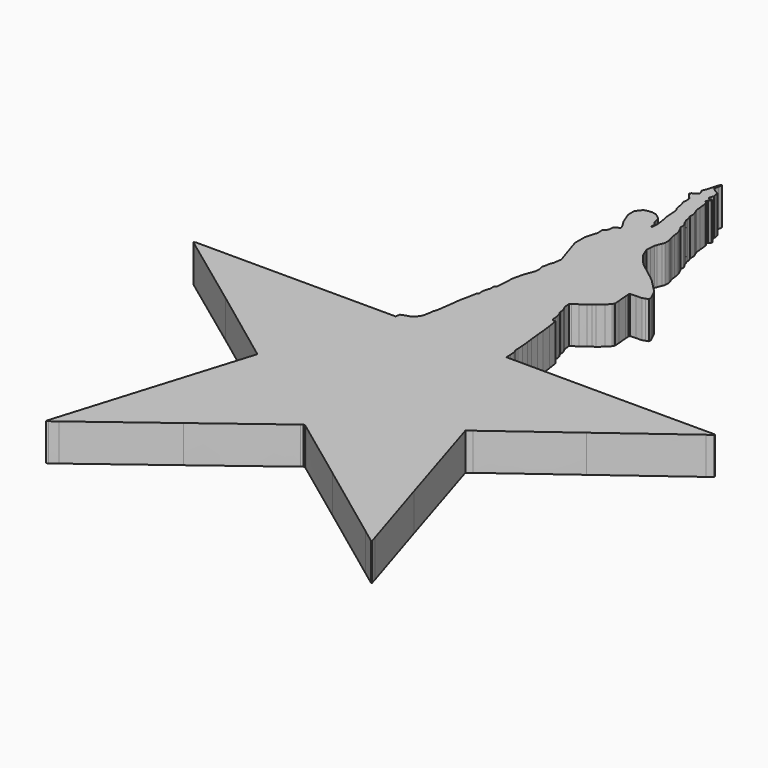
from build123d import *

# Parameters (mm, degrees)
F1_DEPTH = 25


with BuildPart() as f1:
    # F0 (on Top) → F1 (new body)
    with BuildSketch(Plane.XY):
        with BuildLine():
            add(Edge.make_bspline(
                [(1.102414, 215.360688), (1.131774, 215.871459), (0.384142, 216.245898), (0.013864, 215.253641)],
                knots=[0, 0, 0, 0, 1, 1, 1, 1], degree=3))
            add(Edge.make_bspline(
                [(0.013864, 215.253641), (-0.129153, 214.870394), (-0.434494, 213.802145), (-0.754055, 212.706107)],
                knots=[0, 0, 0, 0, 1, 1, 1, 1], degree=3))
            add(Edge.make_bspline(
                [(-0.754055, 212.706107), (-1.073643, 211.609899), (-1.41262, 210.331997), (-1.503722, 209.866217)],
                knots=[0, 0, 0, 0, 1, 1, 1, 1], degree=3))
            add(Edge.make_bspline(
                [(-1.503722, 209.866217), (-1.59471, 209.400551), (-2.0654, 207.962007), (-2.553221, 206.673607)],
                knots=[0, 0, 0, 0, 1, 1, 1, 1], degree=3))
            Line((-2.553221, 206.673607), (-3.443999, 204.327606))
            Line((-3.443999, 204.327606), (-2.791332, 202.766579))
            Line((-2.791332, 202.766579), (-2.147527, 201.205551))
            Line((-2.147527, 201.205551), (-2.72961, 200.623439))
            add(Edge.make_bspline(
                [(-2.72961, 200.623439), (-3.049312, 200.303766), (-3.907888, 199.713075), (-4.643444, 199.309356)],
                knots=[0, 0, 0, 0, 1, 1, 1, 1], degree=3))
            Line((-4.643444, 199.309356), (-5.983999, 198.577328))
            Line((-5.983999, 198.577328), (-6.275027, 198.092273))
            Line((-6.275027, 198.092273), (-6.574888, 197.616023))
            Line((-6.574888, 197.616023), (-5.948722, 196.945745))
            add(Edge.make_bspline(
                [(-5.948722, 196.945745), (-5.60458, 196.579505), (-5.322527, 196.174009), (-5.322527, 196.046162)],
                knots=[0, 0, 0, 0, 1, 1, 1, 1], degree=3))
            add(Edge.make_bspline(
                [(-5.322527, 196.046162), (-5.322527, 195.918287), (-4.822514, 195.271716), (-4.211277, 194.608607)],
                knots=[0, 0, 0, 0, 1, 1, 1, 1], degree=3))
            Line((-4.211277, 194.608607), (-3.100027, 193.400329))
            Line((-3.100027, 193.400329), (-2.905999, 192.359634))
            Line((-2.905999, 192.359634), (-2.711971, 191.31894))
            Line((-2.711971, 191.31894), (-2.861888, 189.643245))
            Line((-2.861888, 189.643245), (-3.011832, 187.976384))
            Line((-3.011832, 187.976384), (-2.588499, 187.112051))
            Line((-2.588499, 187.112051), (-2.156332, 186.247773))
            Line((-2.156332, 186.247773), (-1.671277, 183.354995))
            Line((-1.671277, 183.354995), (-1.186222, 180.453384))
            Line((-1.186222, 180.453384), (-0.595305, 179.492051))
            Line((-0.595305, 179.492051), (-0.004388, 178.539551))
            Line((-0.004388, 178.539551), (0.321918, 175.152884))
            add(Edge.make_bspline(
                [(0.321918, 175.152884), (0.503076, 173.29033), (0.633434, 171.213429), (0.612945, 170.540329)],
                knots=[0, 0, 0, 0, 1, 1, 1, 1], degree=3))
            Line((0.612945, 170.540329), (0.577667, 169.31444))
            Line((0.577667, 169.31444), (1.001001, 167.859217))
            add(Edge.make_bspline(
                [(1.001001, 167.859217), (1.232141, 167.057706), (1.623244, 164.90675), (1.87414, 163.079079)],
                knots=[0, 0, 0, 0, 1, 1, 1, 1], degree=3))
            Line((1.87414, 163.079079), (2.332751, 159.754162))
            Line((2.332751, 159.754162), (2.209279, 157.778607))
            add(Edge.make_bspline(
                [(2.209279, 157.778607), (2.142279, 156.689765), (2.01415, 155.722533), (1.927056, 155.635467)],
                knots=[0, 0, 0, 0, 1, 1, 1, 1], degree=3))
            Line((1.927056, 155.635467), (1.768306, 155.476717))
            Line((1.768306, 155.476717), (1.468445, 155.66194))
            Line((1.468445, 155.66194), (1.168584, 155.847134))
            Line((1.168584, 155.847134), (1.336168, 156.923106))
            Line((1.336168, 156.923106), (1.512557, 157.999079))
            Line((1.512557, 157.999079), (1.159779, 158.669356))
            add(Edge.make_bspline(
                [(1.159779, 158.669356), (0.968545, 159.039293), (0.579558, 159.599871), (0.295445, 159.912884)],
                knots=[0, 0, 0, 0, 1, 1, 1, 1], degree=3))
            Line((0.295445, 159.912884), (-0.216054, 160.486162))
            Line((-0.216054, 160.486162), (-0.789332, 162.311773))
            add(Edge.make_bspline(
                [(-0.789332, 162.311773), (-1.104744, 163.318262), (-1.368594, 164.344591), (-1.371416, 164.587218)],
                knots=[0, 0, 0, 0, 1, 1, 1, 1], degree=3))
            Line((-1.371416, 164.587218), (-1.371416, 165.028162))
            Line((-1.371416, 165.028162), (-2.147527, 165.724912))
            add(Edge.make_bspline(
                [(-2.147527, 165.724912), (-2.574388, 166.108141), (-3.516361, 166.823518), (-4.237721, 167.321217)],
                knots=[0, 0, 0, 0, 1, 1, 1, 1], degree=3))
            Line((-4.237721, 167.321217), (-5.551832, 168.229634))
            Line((-5.551832, 168.229634), (-7.024666, 168.547134))
            Line((-7.024666, 168.547134), (-8.506332, 168.864634))
            Line((-8.506332, 168.864634), (-10.19086, 168.670606))
            add(Edge.make_bspline(
                [(-10.19086, 168.670606), (-11.114743, 168.566071), (-12.20381, 168.35861), (-12.616222, 168.203162)],
                knots=[0, 0, 0, 0, 1, 1, 1, 1], degree=3))
            Line((-12.616222, 168.203162), (-13.36586, 167.920939))
            Line((-13.36586, 167.920939), (-14.300721, 167.021384))
            add(Edge.make_bspline(
                [(-14.300721, 167.021384), (-14.812334, 166.527749), (-15.564936, 165.55174), (-15.976416, 164.851773)],
                knots=[0, 0, 0, 0, 1, 1, 1, 1], degree=3))
            Line((-15.976416, 164.851773), (-16.726054, 163.581773))
            Line((-16.726054, 163.581773), (-16.655499, 161.068245))
            Line((-16.655499, 161.068245), (-16.593777, 158.554718))
            Line((-16.593777, 158.554718), (-16.055777, 157.258245))
            add(Edge.make_bspline(
                [(-16.055777, 157.258245), (-15.758258, 156.543546), (-15.122891, 154.945886), (-14.653499, 153.703995)],
                knots=[0, 0, 0, 0, 1, 1, 1, 1], degree=3))
            Line((-14.653499, 153.703995), (-13.806832, 151.446217))
            Line((-13.806832, 151.446217), (-12.087055, 148.623995))
            Line((-12.087055, 148.623995), (-10.358444, 145.801773))
            Line((-10.358444, 145.801773), (-10.208499, 145.025662))
            Line((-10.208499, 145.025662), (-10.049749, 144.258384))
            Line((-10.049749, 144.258384), (-10.437805, 144.134912))
            add(Edge.make_bspline(
                [(-10.437805, 144.134912), (-10.650741, 144.067884), (-11.14336, 143.938401), (-11.531416, 143.85269)],
                knots=[0, 0, 0, 0, 1, 1, 1, 1], degree=3))
            Line((-11.531416, 143.85269), (-12.236971, 143.702773))
            Line((-12.236971, 143.702773), (-13.013082, 142.970745))
            Line((-13.013082, 142.970745), (-13.789194, 142.247551))
            Line((-13.789194, 142.247551), (-13.789194, 140.730606))
            Line((-13.789194, 140.730606), (-13.789194, 139.213662))
            Line((-13.789194, 139.213662), (-15.076832, 137.705551))
            Line((-15.076832, 137.705551), (-16.364471, 136.206217))
            Line((-16.364471, 136.206217), (-16.188082, 134.362967))
            Line((-16.188082, 134.362967), (-16.002888, 132.528523))
            Line((-16.002888, 132.528523), (-16.584943, 130.976301))
            add(Edge.make_bspline(
                [(-16.584943, 130.976301), (-16.901794, 130.123595), (-17.435279, 128.289969), (-17.775582, 126.892884)],
                knots=[0, 0, 0, 0, 1, 1, 1, 1], degree=3))
            Line((-17.775582, 126.892884), (-18.392944, 124.352884))
            Line((-18.392944, 124.352884), (-18.419388, 120.401773))
            Line((-18.419388, 120.401773), (-18.44586, 116.450662))
            Line((-18.44586, 116.450662), (-17.352249, 112.922884))
            add(Edge.make_bspline(
                [(-17.352249, 112.922884), (-16.747701, 110.982606), (-15.631653, 107.553606), (-14.873999, 105.302884)],
                knots=[0, 0, 0, 0, 1, 1, 1, 1], degree=3))
            add(Edge.make_bspline(
                [(-14.873999, 105.302884), (-14.116233, 103.052275), (-13.182642, 100.209619), (-12.801416, 98.988162)],
                knots=[0, 0, 0, 0, 1, 1, 1, 1], degree=3))
            Line((-12.801416, 98.988162), (-12.104666, 96.765662))
            Line((-12.104666, 96.765662), (-12.536832, 94.049273))
            Line((-12.536832, 94.049273), (-12.960166, 91.332884))
            Line((-12.960166, 91.332884), (-13.42761, 90.203995))
            Line((-13.42761, 90.203995), (-13.886222, 89.075106))
            Line((-13.886222, 89.075106), (-14.080221, 87.522884))
            add(Edge.make_bspline(
                [(-14.080221, 87.522884), (-14.189159, 86.669359), (-14.453968, 85.555118), (-14.662333, 85.053439)],
                knots=[0, 0, 0, 0, 1, 1, 1, 1], degree=3))
            Line((-14.662333, 85.053439), (-15.041555, 84.145051))
            Line((-15.041555, 84.145051), (-14.63586, 82.795662))
            Line((-14.63586, 82.795662), (-14.221332, 81.455106))
            Line((-14.221332, 81.455106), (-14.274277, 79.867606))
            Line((-14.274277, 79.867606), (-14.327166, 78.28894))
            Line((-14.327166, 78.28894), (-15.032721, 76.251662))
            add(Edge.make_bspline(
                [(-15.032721, 76.251662), (-15.423373, 75.133949), (-15.986011, 73.691427), (-16.28511, 73.041384)],
                knots=[0, 0, 0, 0, 1, 1, 1, 1], degree=3))
            add(Edge.make_bspline(
                [(-16.28511, 73.041384), (-16.583899, 72.391229), (-17.055859, 70.907051), (-17.325777, 69.742884)],
                knots=[0, 0, 0, 0, 1, 1, 1, 1], degree=3))
            add(Edge.make_bspline(
                [(-17.325777, 69.742884), (-17.59575, 68.578717), (-17.989196, 66.800774), (-18.207721, 65.791773)],
                knots=[0, 0, 0, 0, 1, 1, 1, 1], degree=3))
            Line((-18.207721, 65.791773), (-18.60461, 63.957328))
            Line((-18.60461, 63.957328), (-18.886832, 59.441773))
            add(Edge.make_bspline(
                [(-18.886832, 59.441773), (-19.041434, 56.958274), (-19.207522, 54.277304), (-19.248444, 53.488662)],
                knots=[0, 0, 0, 0, 1, 1, 1, 1], degree=3))
            Line((-19.248444, 53.488662), (-19.318999, 52.051107))
            Line((-19.318999, 52.051107), (-19.945166, 51.266162))
            Line((-19.945166, 51.266162), (-20.562527, 50.472412))
            Line((-20.562527, 50.472412), (-20.562527, 48.990745))
            Line((-20.562527, 48.990745), (-20.562527, 47.509079))
            Line((-20.562527, 47.509079), (-20.98586, 46.69769))
            add(Edge.make_bspline(
                [(-20.98586, 46.69769), (-21.217734, 46.253077), (-21.409194, 45.664728), (-21.409194, 45.383607)],
                knots=[0, 0, 0, 0, 1, 1, 1, 1], degree=3))
            add(Edge.make_bspline(
                [(-21.409194, 45.383607), (-21.41004, 45.101638), (-21.53117, 44.634702), (-21.68261, 44.351717)],
                knots=[0, 0, 0, 0, 1, 1, 1, 1], degree=3))
            add(Edge.make_bspline(
                [(-21.68261, 44.351717), (-21.833938, 44.068761), (-21.980637, 43.472934), (-22.00011, 43.028801)],
                knots=[0, 0, 0, 0, 1, 1, 1, 1], degree=3))
            add(Edge.make_bspline(
                [(-22.00011, 43.028801), (-22.019527, 42.584668), (-21.950214, 41.62277), (-21.850166, 40.894495)],
                knots=[0, 0, 0, 0, 1, 1, 1, 1], degree=3))
            Line((-21.850166, 40.894495), (-21.664943, 39.571579))
            Line((-21.664943, 39.571579), (-22.211777, 39.280551))
            Line((-22.211777, 39.280551), (-22.758554, 38.989495))
            Line((-22.758554, 38.989495), (-22.95261, 37.64894))
            add(Edge.make_bspline(
                [(-22.95261, 37.64894), (-23.058952, 36.907316), (-23.511552, 34.414871), (-23.966832, 32.110329)],
                knots=[0, 0, 0, 0, 1, 1, 1, 1], degree=3))
            add(Edge.make_bspline(
                [(-23.966832, 32.110329), (-24.422142, 29.805758), (-24.846604, 27.830852), (-24.910499, 27.727051)],
                knots=[0, 0, 0, 0, 1, 1, 1, 1], degree=3))
            add(Edge.make_bspline(
                [(-24.910499, 27.727051), (-24.97445, 27.623785), (-25.109635, 26.587324), (-25.210388, 25.42519)],
                knots=[0, 0, 0, 0, 1, 1, 1, 1], degree=3))
            add(Edge.make_bspline(
                [(-25.210388, 25.42519), (-25.311085, 24.263027), (-25.632056, 21.719443), (-25.924749, 19.77194)],
                knots=[0, 0, 0, 0, 1, 1, 1, 1], degree=3))
            add(Edge.make_bspline(
                [(-25.924749, 19.77194), (-26.21747, 17.823732), (-26.596184, 15.131614), (-26.76261, 13.792328)],
                knots=[0, 0, 0, 0, 1, 1, 1, 1], degree=3))
            Line((-26.76261, 13.792328), (-27.062443, 11.358162))
            Line((-27.062443, 11.358162), (-27.485777, 10.158717))
            Line((-27.485777, 10.158717), (-27.90911, 8.959273))
            Line((-27.90911, 8.959273), (-28.341277, 5.978329))
            add(Edge.make_bspline(
                [(-28.341277, 5.978329), (-28.57665, 4.336162), (-28.907161, 2.566939), (-29.073277, 2.044828)],
                knots=[0, 0, 0, 0, 1, 1, 1, 1], degree=3))
            add(Edge.make_bspline(
                [(-29.073277, 2.044828), (-29.239449, 1.523592), (-29.682764, 0.635128), (-30.061054, 0.069273)],
                knots=[0, 0, 0, 0, 1, 1, 1, 1], degree=3))
            add(Edge.make_bspline(
                [(-30.061054, 0.069273), (-30.439402, -0.49568), (-31.28635, -1.431049), (-31.93961, -2.012116)],
                knots=[0, 0, 0, 0, 1, 1, 1, 1], degree=3))
            Line((-31.93961, -2.012116), (-33.121416, -3.070449))
            Line((-33.121416, -3.070449), (-35.520305, -3.78481))
            add(Edge.make_bspline(
                [(-35.520305, -3.78481), (-36.839694, -4.177748), (-38.236694, -4.678241), (-38.624749, -4.89606)],
                knots=[0, 0, 0, 0, 1, 1, 1, 1], degree=3))
            Line((-38.624749, -4.89606), (-39.330305, -5.292949))
            Line((-39.330305, -5.292949), (-39.409666, -6.086671))
            add(Edge.make_bspline(
                [(-39.409666, -6.086671), (-39.452366, -6.525386), (-39.547729, -7.161373), (-39.621332, -7.497782)],
                knots=[0, 0, 0, 0, 1, 1, 1, 1], degree=3))
            Line((-39.621332, -7.497782), (-39.753638, -8.106338))
            Line((-39.753638, -8.106338), (-106.975444, -8.018144))
            Line((-106.975444, -8.018144), (-174.188443, -7.921116))
            Line((-174.188443, -7.921116), (-174.893998, -8.194533))
            Line((-174.893998, -8.194533), (-175.599554, -8.459116))
            Line((-175.599554, -8.459116), (-174.567665, -9.314616))
            add(Edge.make_bspline(
                [(-174.567665, -9.314616), (-173.998112, -9.783952), (-172.480349, -10.873922), (-122.375647, -47.810619)],
                knots=[0, 0, 0, 0, 1, 1, 1, 1], degree=3))
            Line((-122.375647, -47.810619), (-69.669194, -87.084466))
            add(Edge.make_bspline(
                [(-69.669194, -87.084466), (-69.669194, -87.299971), (-69.914529, -88.207739), (-70.207166, -89.095299)],
                knots=[0, 0, 0, 0, 1, 1, 1, 1], degree=3))
            add(Edge.make_bspline(
                [(-70.207166, -89.095299), (-70.499915, -89.983622), (-71.012063, -91.725272), (-89.769215, -152.77087)],
                knots=[0, 0, 0, 0, 1, 1, 1, 1], degree=3))
            add(Edge.make_bspline(
                [(-89.769215, -152.77087), (-108.526368, -213.816468), (-108.898082, -215.181153), (-108.898082, -215.425021)],
                knots=[0, 0, 0, 0, 1, 1, 1, 1], degree=3))
            Line((-108.898082, -215.425021), (-108.898082, -215.874827))
            Line((-108.898082, -215.874827), (-108.686416, -215.866078))
            add(Edge.make_bspline(
                [(-108.686416, -215.866078), (-108.569999, -215.863256), (-108.135574, -215.642897), (-107.716277, -215.372189)],
                knots=[0, 0, 0, 0, 1, 1, 1, 1], degree=3))
            add(Edge.make_bspline(
                [(-107.716277, -215.372189), (-107.296979, -215.100946), (-105.264979, -213.602148), (-103.200721, -212.038411)],
                knots=[0, 0, 0, 0, 1, 1, 1, 1], degree=3))
            add(Edge.make_bspline(
                [(-103.200721, -212.038411), (-101.136463, -210.475211), (-97.941397, -208.062577), (-50.877893, -172.600847)],
                knots=[0, 0, 0, 0, 1, 1, 1, 1], degree=3))
            add(Edge.make_bspline(
                [(-50.877893, -172.600847), (-3.814388, -137.139089), (-2.530813, -136.154839), (-1.882944, -135.6003)],
                knots=[0, 0, 0, 0, 1, 1, 1, 1], degree=3))
            Line((-1.882944, -135.6003), (-0.709943, -134.586078))
            Line((-0.709943, -134.586078), (-0.119055, -134.586078))
            Line((-0.119055, -134.586078), (0.471834, -134.586078))
            Line((0.471834, -134.586078), (1.777112, -135.503301))
            add(Edge.make_bspline(
                [(1.777112, -135.503301), (2.493448, -136.00766), (3.860589, -136.991345), (46.013568, -168.300373)],
                knots=[0, 0, 0, 0, 1, 1, 1, 1], degree=3))
            add(Edge.make_bspline(
                [(46.013568, -168.300373), (88.166548, -199.609401), (95.451409, -205.032555), (100.590165, -208.863411)],
                knots=[0, 0, 0, 0, 1, 1, 1, 1], degree=3))
            Line((100.590165, -208.863411), (109.938776, -215.830801))
            Line((109.938776, -215.830801), (110.141637, -215.7073))
            Line((110.141637, -215.7073), (110.344498, -215.575023))
            Line((110.344498, -215.575023), (110.115165, -214.807745))
            add(Edge.make_bspline(
                [(110.115165, -214.807745), (109.987685, -214.382267), (109.563872, -212.952077), (109.171498, -211.632745)],
                knots=[0, 0, 0, 0, 1, 1, 1, 1], degree=3))
            add(Edge.make_bspline(
                [(109.171498, -211.632745), (108.779153, -210.312679), (106.850559, -204.089679), (92.082245, -157.189821)],
                knots=[0, 0, 0, 0, 1, 1, 1, 1], degree=3))
            Line((92.082245, -157.189821), (70.19839, -86.819967))
            add(Edge.make_bspline(
                [(70.19839, -86.819967), (70.279416, -86.627971), (71.683387, -85.514689), (73.320445, -84.350523)],
                knots=[0, 0, 0, 0, 1, 1, 1, 1], degree=3))
            add(Edge.make_bspline(
                [(73.320445, -84.350523), (74.957673, -83.186356), (77.035167, -81.662243), (121.310356, -48.865622)],
                knots=[0, 0, 0, 0, 1, 1, 1, 1], degree=3))
            add(Edge.make_bspline(
                [(121.310356, -48.865622), (165.585547, -16.068984), (170.073473, -12.756796), (172.036498, -11.316672)],
                knots=[0, 0, 0, 0, 1, 1, 1, 1], degree=3))
            Line((172.036498, -11.316672), (175.599554, -8.706117))
            Line((175.599554, -8.706117), (175.440804, -8.432728))
            Line((175.440804, -8.432728), (175.27322, -8.168117))
            Line((175.27322, -8.168117), (105.264498, -8.159311))
            add(Edge.make_bspline(
                [(105.264498, -8.159311), (66.760585, -8.154598), (35.16894, -8.089913), (35.05289, -8.0182)],
                knots=[0, 0, 0, 0, 1, 1, 1, 1], degree=3))
            Line((35.05289, -8.0182), (34.841223, -7.894728))
            Line((34.841223, -7.894728), (34.673668, -4.552173))
            Line((34.673668, -4.552173), (34.506084, -1.218394))
            Line((34.506084, -1.218394), (34.012195, 0.183883))
            Line((34.012195, 0.183883), (33.518306, 1.586161))
            Line((33.518306, 1.586161), (33.474223, 3.279494))
            add(Edge.make_bspline(
                [(33.474223, 3.279494), (33.449049, 4.211505), (33.340365, 6.17944), (33.236084, 7.653939)],
                knots=[0, 0, 0, 0, 1, 1, 1, 1], degree=3))
            add(Edge.make_bspline(
                [(33.236084, 7.653939), (33.131831, 9.129227), (32.924765, 11.161227), (32.777473, 12.169494)],
                knots=[0, 0, 0, 0, 1, 1, 1, 1], degree=3))
            add(Edge.make_bspline(
                [(32.777473, 12.169494), (32.630181, 13.178495), (32.387837, 15.147616), (32.230668, 16.543939)],
                knots=[0, 0, 0, 0, 1, 1, 1, 1], degree=3))
            add(Edge.make_bspline(
                [(32.230668, 16.543939), (32.073498, 17.940995), (31.800138, 20.545116), (31.630945, 22.329494)],
                knots=[0, 0, 0, 0, 1, 1, 1, 1], degree=3))
            add(Edge.make_bspline(
                [(31.630945, 22.329494), (31.461781, 24.114606), (31.265496, 26.337106), (31.189973, 27.268383)],
                knots=[0, 0, 0, 0, 1, 1, 1, 1], degree=3))
            add(Edge.make_bspline(
                [(31.189973, 27.268383), (31.114422, 28.200394), (30.738897, 31.184216), (30.352112, 33.900605)],
                knots=[0, 0, 0, 0, 1, 1, 1, 1], degree=3))
            add(Edge.make_bspline(
                [(30.352112, 33.900605), (29.965383, 36.616994), (29.575154, 39.125301), (29.487834, 39.474494)],
                knots=[0, 0, 0, 0, 1, 1, 1, 1], degree=3))
            Line((29.487834, 39.474494), (29.329056, 40.109494))
            Line((29.329056, 40.109494), (28.535334, 40.109494))
            Line((28.535334, 40.109494), (27.732751, 40.109494))
            Line((27.732751, 40.109494), (27.291779, 40.550495))
            add(Edge.make_bspline(
                [(27.291779, 40.550495), (27.047854, 40.794363), (26.835284, 41.206492), (26.815529, 41.467717)],
                knots=[0, 0, 0, 0, 1, 1, 1, 1], degree=3))
            add(Edge.make_bspline(
                [(26.815529, 41.467717), (26.79566, 41.728208), (26.745594, 42.578939), (26.709695, 43.35505)],
                knots=[0, 0, 0, 0, 1, 1, 1, 1], degree=3))
            add(Edge.make_bspline(
                [(26.709695, 43.35505), (26.673768, 44.131161), (26.466928, 45.465338), (26.251084, 46.318383)],
                knots=[0, 0, 0, 0, 1, 1, 1, 1], degree=3))
            Line((26.251084, 46.318383), (25.863029, 47.870605))
            Line((25.863029, 47.870605), (25.351501, 48.620272))
            Line((25.351501, 48.620272), (24.839973, 49.378744))
            Line((24.839973, 49.378744), (24.681223, 51.019161))
            Line((24.681223, 51.019161), (24.522473, 52.668383))
            Line((24.522473, 52.668383), (23.746362, 54.361716))
            Line((23.746362, 54.361716), (22.961446, 56.05505))
            Line((22.961446, 56.05505), (22.776223, 58.101161))
            Line((22.776223, 58.101161), (22.582195, 60.147272))
            Line((22.582195, 60.147272), (23.658168, 60.773467))
            add(Edge.make_bspline(
                [(23.658168, 60.773467), (24.249621, 61.119894), (25.75014, 62.093307), (26.991918, 62.934216)],
                knots=[0, 0, 0, 0, 1, 1, 1, 1], degree=3))
            add(Edge.make_bspline(
                [(26.991918, 62.934216), (28.233695, 63.776029), (29.771919, 64.942764), (30.413862, 65.527161)],
                knots=[0, 0, 0, 0, 1, 1, 1, 1], degree=3))
            add(Edge.make_bspline(
                [(30.413862, 65.527161), (31.055805, 66.111277), (31.972011, 66.787509), (32.451168, 67.035272)],
                knots=[0, 0, 0, 0, 1, 1, 1, 1], degree=3))
            add(Edge.make_bspline(
                [(32.451168, 67.035272), (32.930212, 67.283035), (33.741601, 67.77794), (34.250334, 68.128883)],
                knots=[0, 0, 0, 0, 1, 1, 1, 1], degree=3))
            add(Edge.make_bspline(
                [(34.250334, 68.128883), (34.759012, 68.479798), (36.344226, 69.928699), (37.769279, 71.347995)],
                knots=[0, 0, 0, 0, 1, 1, 1, 1], degree=3))
            Line((37.769279, 71.347995), (40.35339, 73.923272))
            Line((40.35339, 73.923272), (40.785529, 74.761105))
            Line((40.785529, 74.761105), (41.217667, 75.590133))
            Line((41.217667, 75.590133), (40.935445, 78.941522))
            add(Edge.make_bspline(
                [(40.935445, 78.941522), (40.780054, 80.785562), (40.542056, 83.635668), (40.406278, 85.26505)],
                knots=[0, 0, 0, 0, 1, 1, 1, 1], degree=3))
            Line((40.406278, 85.26505), (40.159334, 88.219578))
            Line((40.159334, 88.219578), (40.415112, 88.537078))
            Line((40.415112, 88.537078), (40.67089, 88.845772))
            Line((40.67089, 88.845772), (44.445612, 89.013328))
            Line((44.445612, 89.013328), (48.220334, 89.180883))
            Line((48.220334, 89.180883), (50.160612, 89.83355))
            Line((50.160612, 89.83355), (52.109695, 90.486161))
            Line((52.109695, 90.486161), (52.074418, 91.3593))
            Line((52.074418, 91.3593), (52.030334, 92.232439))
            Line((52.030334, 92.232439), (50.398723, 95.592633))
            Line((50.398723, 95.592633), (48.758306, 98.952827))
            Line((48.758306, 98.952827), (44.225112, 103.565411))
            Line((44.225112, 103.565411), (39.691918, 108.177995))
            Line((39.691918, 108.177995), (36.305251, 110.929661))
            add(Edge.make_bspline(
                [(36.305251, 110.929661), (34.442584, 112.442739), (31.456899, 114.727102), (29.673029, 116.009661)],
                knots=[0, 0, 0, 0, 1, 1, 1, 1], degree=3))
            add(Edge.make_bspline(
                [(29.673029, 116.009661), (27.889158, 117.292107), (26.047658, 118.676238), (25.580806, 119.087633)],
                knots=[0, 0, 0, 0, 1, 1, 1, 1], degree=3))
            add(Edge.make_bspline(
                [(25.580806, 119.087633), (25.113954, 119.499029), (23.617838, 121.102897), (22.25589, 122.650689)],
                knots=[0, 0, 0, 0, 1, 1, 1, 1], degree=3))
            add(Edge.make_bspline(
                [(22.25589, 122.650689), (20.893829, 124.19848), (19.463527, 125.931042), (19.072056, 126.495967)],
                knots=[0, 0, 0, 0, 1, 1, 1, 1], degree=3))
            Line((19.072056, 126.495967), (18.357667, 127.519022))
            Line((18.357667, 127.519022), (17.122945, 130.535272))
            Line((17.122945, 130.535272), (15.897056, 133.551522))
            Line((15.897056, 133.551522), (16.152834, 136.717717))
            Line((16.152834, 136.717717), (16.41739, 139.87505))
            Line((16.41739, 139.87505), (16.840723, 141.224439))
            add(Edge.make_bspline(
                [(16.840723, 141.224439), (17.076999, 141.969816), (17.587455, 143.263833), (17.969612, 144.099578)],
                knots=[0, 0, 0, 0, 1, 1, 1, 1], degree=3))
            Line((17.969612, 144.099578), (18.666362, 145.625327))
            Line((18.666362, 145.625327), (18.666362, 147.318661))
            Line((18.666362, 147.318661), (18.666362, 149.011994))
            Line((18.666362, 149.011994), (17.969612, 151.216883))
            Line((17.969612, 151.216883), (17.27289, 153.421716))
            Line((17.27289, 153.421716), (16.981834, 155.97055))
            add(Edge.make_bspline(
                [(16.981834, 155.97055), (16.822943, 157.374859), (16.529178, 159.089359), (16.32039, 159.78055)],
                knots=[0, 0, 0, 0, 1, 1, 1, 1], degree=3))
            add(Edge.make_bspline(
                [(16.32039, 159.78055), (16.111574, 160.471712), (15.469828, 161.910904), (14.900445, 162.981994)],
                knots=[0, 0, 0, 0, 1, 1, 1, 1], degree=3))
            Line((14.900445, 162.981994), (13.868584, 164.931105))
            Line((13.868584, 164.931105), (13.868584, 166.165828))
            Line((13.868584, 166.165828), (13.868584, 167.409383))
            Line((13.868584, 167.409383), (13.489334, 168.317772))
            add(Edge.make_bspline(
                [(13.489334, 168.317772), (13.280574, 168.817249), (12.907222, 169.391797), (12.660334, 169.596606)],
                knots=[0, 0, 0, 0, 1, 1, 1, 1], degree=3))
            Line((12.660334, 169.596606), (12.210529, 169.966994))
            Line((12.210529, 169.966994), (12.016501, 170.866606))
            add(Edge.make_bspline(
                [(12.016501, 170.866606), (11.911006, 171.360184), (11.705407, 171.909078), (11.55789, 172.092494)],
                knots=[0, 0, 0, 0, 1, 1, 1, 1], degree=3))
            Line((11.55789, 172.092494), (11.293306, 172.427633))
            Line((11.293306, 172.427633), (11.01989, 174.341439))
            Line((11.01989, 174.341439), (10.746501, 176.255272))
            Line((10.746501, 176.255272), (10.358445, 176.854994))
            Line((10.358445, 176.854994), (9.97039, 177.445883))
            Line((9.97039, 177.445883), (9.996834, 179.121606))
            Line((9.996834, 179.121606), (10.032112, 180.797272))
            Line((10.032112, 180.797272), (9.070806, 183.196161))
            Line((9.070806, 183.196161), (8.109501, 185.59505))
            Line((8.109501, 185.59505), (7.897834, 188.417272))
            add(Edge.make_bspline(
                [(7.897834, 188.417272), (7.781728, 189.969494), (7.565518, 192.013573), (7.421556, 192.968105)],
                knots=[0, 0, 0, 0, 1, 1, 1, 1], degree=3))
            add(Edge.make_bspline(
                [(7.421556, 192.968105), (7.277764, 193.92275), (7.077302, 194.843528), (6.971779, 195.014216)],
                knots=[0, 0, 0, 0, 1, 1, 1, 1], degree=3))
            add(Edge.make_bspline(
                [(6.971779, 195.014216), (6.866256, 195.185017), (6.605595, 195.331716), (6.398501, 195.331716)],
                knots=[0, 0, 0, 0, 1, 1, 1, 1], degree=3))
            Line((6.398501, 195.331716), (6.028112, 195.331716))
            Line((6.028112, 195.331716), (5.860529, 195.75505))
            Line((5.860529, 195.75505), (5.701779, 196.178383))
            Line((5.701779, 196.178383), (5.948723, 196.83105))
            Line((5.948723, 196.83105), (6.195668, 197.483661))
            Line((6.195668, 197.483661), (6.927667, 197.968744))
            Line((6.927667, 197.968744), (7.659695, 198.444994))
            Line((7.659695, 198.444994), (7.659695, 198.859494))
            Line((7.659695, 198.859494), (7.659695, 199.282827))
            Line((7.659695, 199.282827), (7.165806, 199.326939))
            add(Edge.make_bspline(
                [(7.165806, 199.326939), (6.894168, 199.350928), (6.404512, 199.344183), (6.081001, 199.318105)],
                knots=[0, 0, 0, 0, 1, 1, 1, 1], degree=3))
            Line((6.081001, 199.318105), (5.490112, 199.274022))
            Line((5.490112, 199.274022), (4.969779, 199.847272))
            Line((4.969779, 199.847272), (4.449418, 200.429383))
            Line((4.449418, 200.429383), (4.952112, 201.840495))
            Line((4.952112, 201.840495), (5.463668, 203.251606))
            Line((5.463668, 203.251606), (5.260806, 204.86555))
            add(Edge.make_bspline(
                [(5.260806, 204.86555), (5.150204, 205.753336), (4.947286, 206.682835), (4.811001, 206.938105)],
                knots=[0, 0, 0, 0, 1, 1, 1, 1], degree=3))
            Line((4.811001, 206.938105), (4.564056, 207.40555))
            Line((4.564056, 207.40555), (3.77914, 207.72305))
            add(Edge.make_bspline(
                [(3.77914, 207.72305), (3.349005, 207.899411), (2.734607, 208.20311), (2.412112, 208.393328)],
                knots=[0, 0, 0, 0, 1, 1, 1, 1], degree=3))
            add(Edge.make_bspline(
                [(2.412112, 208.393328), (2.089588, 208.583517), (1.606791, 208.960538), (1.336168, 209.231161)],
                knots=[0, 0, 0, 0, 1, 1, 1, 1], degree=3))
            Line((1.336168, 209.231161), (0.842279, 209.72505))
            Line((0.842279, 209.72505), (0.44539, 209.72505))
            Line((0.44539, 209.72505), (0.175724, 209.72505))
            Line((0.175724, 209.72505), (0.294748, 210.827345))
            add(Edge.make_bspline(
                [(0.294748, 210.827345), (0.331866, 211.171069), (0.418009, 211.950386), (0.677145, 213.156463)],
                knots=[0, 0, 0, 0, 1, 1, 1, 1], degree=3))
            Line((0.677145, 213.156463), (1.102414, 215.360688))
        make_face()
    extrude(amount=F1_DEPTH)


solid = f1.part
